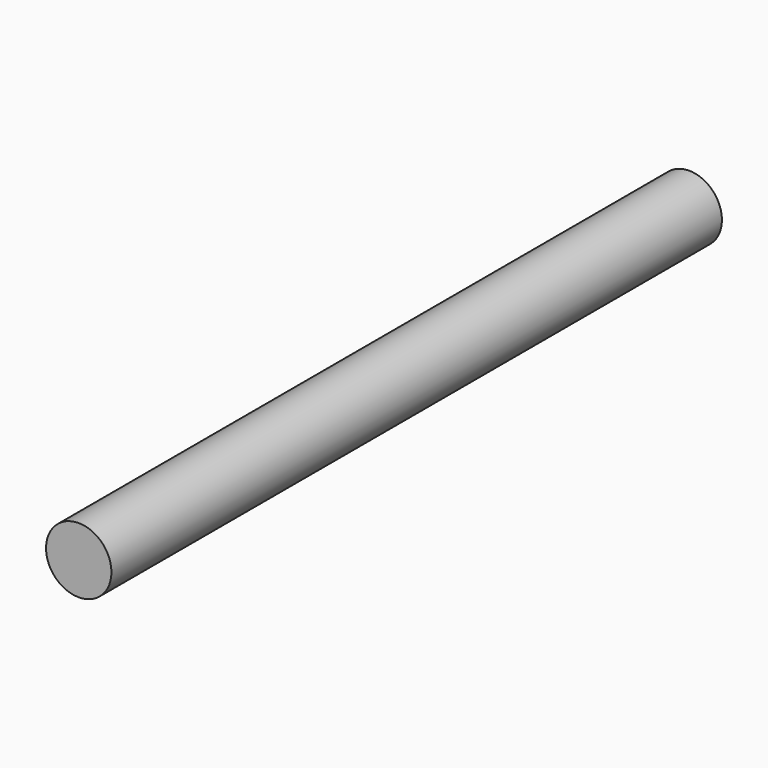
from build123d import *

# Parameters (mm, degrees)
SKETCH_R  = 3
PAD_DEPTH = 70


with BuildPart() as part:
    # Sketch → Pad (new body)
    with BuildSketch(Plane.XZ):
        Circle(SKETCH_R)
    extrude(amount=PAD_DEPTH)


solid = part.part
